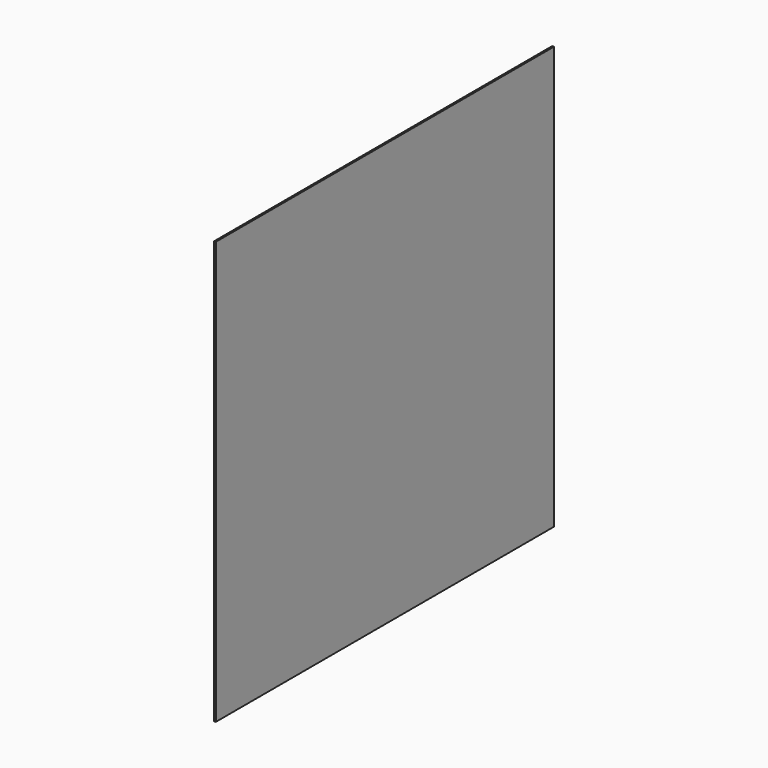
from build123d import *

# Parameters (mm, degrees)
PAD_DEPTH = 2


with BuildPart() as part:
    # Sketch → Pad (new body)
    with BuildSketch(Plane.YZ):
        Polygon((0, 0), (0, 500), (500, 500), (500, 0), (250, 0), align=None)
    extrude(amount=-PAD_DEPTH)


solid = part.part
